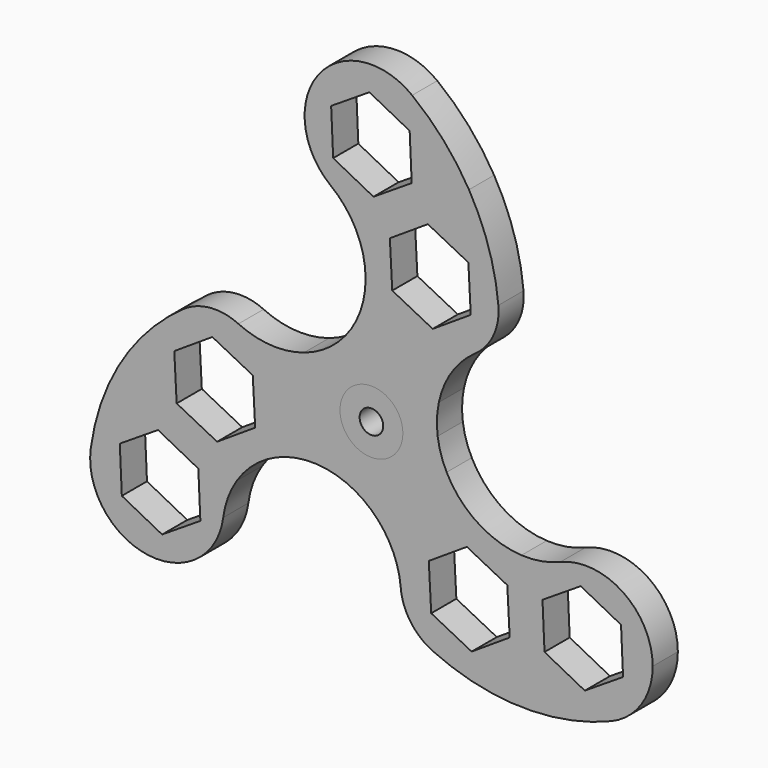
from build123d import *

# Parameters (mm, degrees)
F0_R     = 4
F0_R_2   = 1.5
F1_DEPTH = 4
F2_DEPTH = 4
F3_R     = 7
F5_DEPTH = 5


with BuildPart() as f1:
    # F0 (on Front) → F1 (new body)
    with BuildSketch(Plane.XZ):
        Circle(F0_R)
        Circle(F0_R_2, mode=Mode.SUBTRACT)
    extrude(amount=F1_DEPTH)


with BuildPart() as f2:
    # F0 (on Front) → F2 (new body)
    with BuildSketch(Plane.XZ):
        with BuildLine():
            ThreePointArc((8.4264950876, 1.1154284105), (8.3364947708, 3.0398975998), (8.5728969157, 4.9519111309))
            ThreePointArc((8.5728969157, 4.9519111309), (5.9879137453, 6.5463658555), (3.2472592539, 7.855272582))
            ThreePointArc((3.2472592539, 7.855272582), (6.7398449515, 5.179236433), (8.4264950876, 1.1154284105))
        make_face()
        with BuildLine():
            ThreePointArc((3.2472592539, 7.855272582), (0.3823579471, 8.8636231205), (-2.5739390259, 9.5598547723))
            ThreePointArc((-2.5739390259, 9.5598547723), (-3.7566267506, 8.03902216), (-5.1792369207, 6.7398445768))
            ThreePointArc((-5.1792369207, 6.7398445768), (-1.1154278708, 8.426495159), (3.2472592539, 7.855272582))
        make_face()
        with BuildLine():
            ThreePointArc((-5.1792369207, 6.7398445768), (-6.8008759525, 5.6996674391), (-8.5749292945, 4.9483909476))
            ThreePointArc((-8.5749292945, 4.9483909476), (-8.6632759945, 1.9125020225), (-8.4264951136, -1.1154282143))
            ThreePointArc((-8.4264951136, -1.1154282143), (-7.8552729871, 3.2472582739), (-5.1792369207, 6.7398445768))
        make_face()
        with BuildLine():
            ThreePointArc((-3.2472582285, -7.8552730059), (-6.7398446738, -5.1792367945), (-8.4264951136, -1.1154282143))
            ThreePointArc((-8.4264951136, -1.1154282143), (-7.8673016546, -4.1006803203), (-6.9921075763, -7.0090239704))
            ThreePointArc((-6.9921075763, -7.0090239704), (-5.0836840726, -7.2728452704), (-3.2472582285, -7.8552730059))
        make_face()
        with BuildLine():
            ThreePointArc((5.1792370288, -6.7398444937), (1.1154284884, -8.4264950773), (-3.2472582285, -7.8552730059))
            ThreePointArc((-3.2472582285, -7.8552730059), (-1.5356188502, -8.7395650429), (0.0020323788, -9.9003020785))
            ThreePointArc((0.0020323788, -9.9003020785), (2.6753628237, -8.4588680032), (5.1792370288, -6.7398444937))
        make_face()
        with BuildLine():
            ThreePointArc((5.1792370288, -6.7398444937), (7.4849442954, -4.7629428002), (9.5660466022, -2.5508308019))
            ThreePointArc((9.5660466022, -2.5508308019), (8.8403107944, -0.7661769039), (8.4264950876, 1.1154284105))
            ThreePointArc((8.4264950876, 1.1154284105), (8.481603865, 0.5589238569), (8.5, 0))
            ThreePointArc((8.5, 0), (7.6247463809, -3.7567595914), (5.1792370288, -6.7398444937))
        make_face()
        with BuildLine():
            ThreePointArc((12.4094616626, 30.0190809707), (10.130341663, 29.3097215933), (7.9189370673, 28.4112404231))
            ThreePointArc((7.9189370673, 28.4112404231), (4.7869347023, 24.4760939531), (-0.0209795681, 23.0000258908))
            ThreePointArc((-0.0209795681, 23.0000258908), (-1.0257749344, 21.9784434837), (-1.9776939863, 20.9074185254))
            ThreePointArc((-1.9776939863, 20.9074185254), (-1.0536641236, 18.4019405846), (-0.7398775171, 15.75))
            ThreePointArc((-0.7398775171, 15.75), (-1.2080368697, 12.5219324837), (-2.5739390259, 9.5598547723))
            ThreePointArc((-2.5739390259, 9.5598547723), (0.3823579471, 8.8636231205), (3.2472592539, 7.855272582))
            ThreePointArc((3.2472592539, 7.855272582), (5.9879137453, 6.5463658555), (8.5728969157, 4.9519111309))
            ThreePointArc((8.5728969157, 4.9519111309), (11.2351619583, 10.1969727182), (16.1632819104, 13.4081967759))
            ThreePointArc((16.1632819104, 13.4081967759), (16.2359019984, 14.5780976537), (16.2601224829, 15.75))
            ThreePointArc((16.2601224829, 15.75), (15.2805413698, 23.1397608301), (12.4094616626, 30.0190809707))
        make_face()
        with BuildLine():
            ThreePointArc((-0.0209795681, 23.0000258908), (4.7869347023, 24.4760939531), (7.9189370673, 28.4112404231))
            ThreePointArc((7.9189370673, 28.4112404231), (3.7181687825, 26.0443023941), (-0.0209795681, 23.0000258908))
        make_face()
        with BuildLine():
            ThreePointArc((7.9189370673, 28.4112404231), (8.3534712866, 29.9285301582), (8.5, 31.5))
            ThreePointArc((8.5, 31.5), (7.6247462922, 35.2567597714), (5.1792367107, 38.2398447382))
            ThreePointArc((5.1792367107, 38.2398447382), (-6.7398446866, 36.6792367779), (-5.1792368451, 24.7601553651))
            ThreePointArc((-5.1792368451, 24.7601553651), (-2.7450094039, 23.4554413811), (-0.0209795681, 23.0000258908))
            ThreePointArc((-0.0209795681, 23.0000258908), (3.7181687825, 26.0443023941), (7.9189370673, 28.4112404231))
        make_face()
        with BuildLine():
            ThreePointArc((5.1792367107, 38.2398447382), (7.6247462922, 35.2567597714), (8.5, 31.5))
            ThreePointArc((8.5, 31.5), (8.3534712866, 29.9285301582), (7.9189370673, 28.4112404231))
            ThreePointArc((7.9189370673, 28.4112404231), (10.130341663, 29.3097215933), (12.4094616626, 30.0190809707))
            ThreePointArc((12.4094616626, 30.0190809707), (9.1947549566, 34.4816228083), (5.1792367107, 38.2398447382))
        make_face()
        with BuildLine():
            ThreePointArc((-0.0209795681, 23.0000258908), (-2.7450094039, 23.4554413811), (-5.1792368451, 24.7601553651))
            ThreePointArc((-5.1792368451, 24.7601553651), (-3.3635180741, 23.0124036417), (-1.9776939863, 20.9074185254))
            ThreePointArc((-1.9776939863, 20.9074185254), (-1.0257749344, 21.9784434837), (-0.0209795681, 23.0000258908))
        make_face()
        with BuildLine():
            ThreePointArc((20.6453874258, -21.0636208828), (25.1624433763, -23.9820592806), (30.5270597502, -23.6052724675))
            ThreePointArc((30.5270597502, -23.6052724675), (34.3456231017, -20.4748435946), (35.7798002192, -15.75))
            ThreePointArc((35.7798002192, -15.75), (32.0046443813, -8.684177497), (24.03254195, -7.8947270109))
            ThreePointArc((24.03254195, -7.8947270109), (21.6855127867, -9.3504728204), (19.9290964931, -11.4818441065))
            ThreePointArc((19.9290964931, -11.4818441065), (20.5626287043, -14.8933008483), (20.7748648544, -18.3565877235))
            ThreePointArc((20.7748648544, -18.3565877235), (20.7424770055, -19.7116516454), (20.6453874258, -21.0636208828))
        make_face()
        with BuildLine():
            ThreePointArc((19.9290964931, -11.4818441065), (18.8034517976, -16.383654035), (20.6453874258, -21.0636208828))
            ThreePointArc((20.6453874258, -21.0636208828), (20.7424770055, -19.7116516454), (20.7748648544, -18.3565877235))
            ThreePointArc((20.7748648544, -18.3565877235), (20.5626287043, -14.8933008483), (19.9290964931, -11.4818441065))
        make_face()
        with BuildLine():
            ThreePointArc((24.03254195, -7.8947270109), (21.611085182, -8.5933097245), (19.0952025637, -8.7409760296))
            ThreePointArc((19.0952025637, -8.7409760296), (19.5467778597, -10.1008745901), (19.9290964931, -11.4818441065))
            ThreePointArc((19.9290964931, -11.4818441065), (21.6855127867, -9.3504728204), (24.03254195, -7.8947270109))
        make_face()
        with BuildLine():
            ThreePointArc((3.5301980717, -20.7019111309), (11.2730674839, -24.4785185424), (19.7925558876, -25.7564495325))
            ThreePointArc((19.7925558876, -25.7564495325), (20.3177926461, -23.4279940258), (20.6453874258, -21.0636208828))
            ThreePointArc((20.6453874258, -21.0636208828), (18.8034517976, -16.383654035), (19.9290964931, -11.4818441065))
            ThreePointArc((19.9290964931, -11.4818441065), (19.5467778597, -10.1008745901), (19.0952025637, -8.7409760296))
            ThreePointArc((19.0952025637, -8.7409760296), (13.5013023755, -6.9225682379), (9.5660466022, -2.5508308019))
            ThreePointArc((9.5660466022, -2.5508308019), (7.4849442954, -4.7629428002), (5.1792370288, -6.7398444937))
            ThreePointArc((5.1792370288, -6.7398444937), (2.6753628237, -8.4588680032), (0.0020323788, -9.9003020785))
            ThreePointArc((0.0020323788, -9.9003020785), (2.7888798344, -13.7267110567), (3.7748648544, -18.3565877235))
            ThreePointArc((3.7748648544, -18.3565877235), (3.7135326404, -19.5356131388), (3.5301980717, -20.7019111309))
        make_face()
        with BuildLine():
            ThreePointArc((19.7925558876, -25.7564495325), (25.2645844345, -25.2037026585), (30.5270597502, -23.6052724675))
            ThreePointArc((30.5270597502, -23.6052724675), (25.1624433763, -23.9820592806), (20.6453874258, -21.0636208828))
            ThreePointArc((20.6453874258, -21.0636208828), (20.3177926461, -23.4279940258), (19.7925558876, -25.7564495325))
        make_face()
        with BuildLine():
            ThreePointArc((-19.9081169251, -11.5181817843), (-24.4141118884, -9.8021225759), (-28.5643244931, -7.3476195403))
            ThreePointArc((-28.5643244931, -7.3476195403), (-33.350293716, -9.8002849895), (-35.7062952911, -14.6345714711))
            ThreePointArc((-35.7062952911, -14.6345714711), (-28.3952286751, -24.1764950816), (-18.853305128, -16.8654283828))
            ThreePointArc((-18.853305128, -16.8654283828), (-18.7981963533, -16.3089238429), (-18.7798002192, -15.75))
            ThreePointArc((-18.7798002192, -15.75), (-19.0667219899, -13.5601721529), (-19.9081169251, -11.5181817843))
        make_face()
        with BuildLine():
            ThreePointArc((-28.5643244931, -7.3476195403), (-30.4481343091, -5.8817275674), (-32.2020175502, -4.2626314382))
            ThreePointArc((-32.2020175502, -4.2626314382), (-34.45933874, -9.2779198704), (-35.7062952911, -14.6345714711))
            ThreePointArc((-35.7062952911, -14.6345714711), (-33.350293716, -9.8002849895), (-28.5643244931, -7.3476195403))
        make_face()
        with BuildLine():
            ThreePointArc((-19.6934799821, 7.293714355), (-26.8355526467, 2.4764964516), (-32.2020175502, -4.2626314382))
            ThreePointArc((-32.2020175502, -4.2626314382), (-30.4481343091, -5.8817275674), (-28.5643244931, -7.3476195403))
            ThreePointArc((-28.5643244931, -7.3476195403), (-23.5903864999, -8.0924399181), (-19.9081169251, -11.5181817843))
            ThreePointArc((-19.9081169251, -11.5181817843), (-18.5210029253, -11.8775688936), (-17.1175085773, -12.1664424957))
            ThreePointArc((-17.1175085773, -12.1664424957), (-12.7457711413, -8.2311867224), (-6.9921075763, -7.0090239704))
            ThreePointArc((-6.9921075763, -7.0090239704), (-7.8673016546, -4.1006803203), (-8.4264951136, -1.1154282143))
            ThreePointArc((-8.4264951136, -1.1154282143), (-8.6632759945, 1.9125020225), (-8.5749292945, 4.9483909476))
            ThreePointArc((-8.5749292945, 4.9483909476), (-14.4484183948, 4.6314493124), (-19.6934799821, 7.293714355))
        make_face()
        with BuildLine():
            ThreePointArc((-19.9081169251, -11.5181817843), (-23.5903864999, -8.0924399181), (-28.5643244931, -7.3476195403))
            ThreePointArc((-28.5643244931, -7.3476195403), (-24.4141118884, -9.8021225759), (-19.9081169251, -11.5181817843))
        make_face()
        with BuildLine():
            ThreePointArc((-17.1175085773, -12.1664424957), (-18.5210029253, -11.8775688936), (-19.9081169251, -11.5181817843))
            ThreePointArc((-19.9081169251, -11.5181817843), (-19.0667219899, -13.5601721529), (-18.7798002192, -15.75))
            ThreePointArc((-18.7798002192, -15.75), (-18.7981963533, -16.3089238429), (-18.853305128, -16.8654283828))
            ThreePointArc((-18.853305128, -16.8654283828), (-18.2475671223, -14.4190939286), (-17.1175085773, -12.1664424957))
        make_face()
        with BuildLine():
            ThreePointArc((3.2472592539, 7.855272582), (-1.1154278708, 8.426495159), (-5.1792369207, 6.7398445768))
            ThreePointArc((-5.1792369207, 6.7398445768), (-7.8552729871, 3.2472582739), (-8.4264951136, -1.1154282143))
            ThreePointArc((-8.4264951136, -1.1154282143), (-6.7398446738, -5.1792367945), (-3.2472582285, -7.8552730059))
            ThreePointArc((-3.2472582285, -7.8552730059), (1.1154284884, -8.4264950773), (5.1792370288, -6.7398444937))
            ThreePointArc((5.1792370288, -6.7398444937), (7.6247463809, -3.7567595914), (8.5, 0))
            ThreePointArc((8.5, 0), (8.481603865, 0.5589238569), (8.4264950876, 1.1154284105))
            ThreePointArc((8.4264950876, 1.1154284105), (6.7398449515, 5.179236433), (3.2472592539, 7.855272582))
        make_face()
        Circle(F0_R, mode=Mode.SUBTRACT)
    extrude(amount=F2_DEPTH)

    # F3
    f3_edges = [f2.edges().sort_by_distance(p)[0] for p in [
        (16.163282, -2, 13.408197),
        (-19.69348, -2, 7.293714),
        (3.530198, -2, -20.701911),
    ]]
    fillet(f3_edges, radius=F3_R)

    # F4 (on Front) → F5 (cut)
    with BuildSketch(Plane.XZ):
        Polygon((0.2589552739, 25.2760980245), (5.1244457674, 28.3842060648), (4.8654904936, 34.1518984543), (-0.2589552739, 36.8114828034), (-5.1244457674, 33.7033747631), (-4.8654904936, 27.9356823736), align=None)
        Polygon((7.1844218157, 24.4583874775), (2.3439410107, 21.3114717), (2.6490096151, 15.5460344677), (7.7945590244, 12.9275130128), (12.6350398293, 16.0744287902), (12.329971225, 21.8398660226), align=None)
        Polygon((27.1436664021, -21.2895875964), (32.0091568957, -18.1814795561), (31.7502016218, -12.4137871666), (26.6257558544, -9.7542028175), (21.7602653608, -12.8623108579), (22.0192206347, -18.6300032473), align=None)
        Polygon((17.5893739832, -18.4510855426), (17.2843053789, -12.6856483103), (12.1387559696, -10.0671268554), (7.2982751646, -13.2140426328), (7.603343769, -18.9794798652), (12.7488931783, -21.59800132), align=None)
        Polygon((-15.092834189, 0.28652962), (-20.2383835983, 2.9050510749), (-25.0788644033, -0.2418647025), (-24.7737957989, -6.0073019349), (-19.6282463896, -8.6258233897), (-14.7877655847, -5.4789076123), align=None)
        Polygon((-32.0091568957, -12.8623108579), (-31.7502016218, -18.6300032473), (-26.6257558544, -21.2895875964), (-21.7602653608, -18.1814795561), (-22.0192206347, -12.4137871666), (-27.1436664021, -9.7542028175), align=None)
    extrude(amount=F5_DEPTH, mode=Mode.SUBTRACT)


solid = Compound([f1.part, f2.part])
